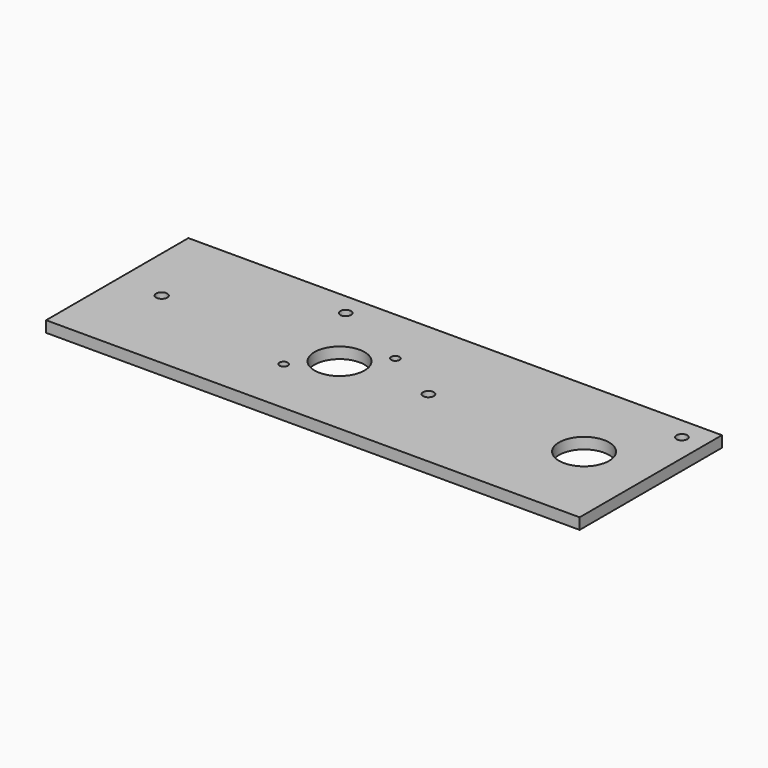
from build123d import *

# Parameters (mm, degrees)
F0_W      = 304.8
F0_H      = 101.6
F1_DEPTH  = 6.35
F2_R      = 3.175
F3_DEPTH  = 6.35
F4_R      = 14.2875
F5_DEPTH  = 6.35
F6_R      = 14.2875
F7_DEPTH  = 6.35
F9_R      = 2.413
F10_DEPTH = 6.35
F11_R     = 3.0861
F12_DEPTH = 6.35
F13_R     = 3.0861
F14_DEPTH = 6.35
F15_R     = 3.0861
F16_DEPTH = 6.35


with BuildPart() as f1:
    # F0 (on Top) → F1 (new body)
    with BuildSketch(Plane.XY):
        with Locations((79.710026, -8.171286)):
            Rectangle(F0_W, F0_H)
    extrude(amount=F1_DEPTH)

    # F2 (on face) → F3 (cut)
    with BuildSketch(Plane.XY.offset(6.35)):
        with Locations((-47.289974, -8.171286)):
            Circle(F2_R)
    extrude(amount=-F3_DEPTH, mode=Mode.SUBTRACT)

    # F4 (on face) → F5 (cut)
    with BuildSketch(Plane.XY.offset(6.35)):
        with Locations((194.010026, -8.171286)):
            Circle(F4_R)
    extrude(amount=-F5_DEPTH, mode=Mode.SUBTRACT)

    # F6 (on face) → F7 (cut)
    with BuildSketch(Plane.XY.offset(6.35)):
        with Locations((54.310026, -8.171286)):
            Circle(F6_R)
    extrude(amount=-F7_DEPTH, mode=Mode.SUBTRACT)

    # F9 (on face) → F10 (cut)
    with BuildSketch(Plane.XY.offset(6.35)):
        with Locations((36.580826, -25.900486)):
            Circle(F9_R)
        with Locations((72.039226, 9.557914)):
            Circle(F9_R)
    extrude(amount=-F10_DEPTH, mode=Mode.SUBTRACT)

    # F11 (on face) → F12 (cut)
    with BuildSketch(Plane.XY):
        with Locations((105.110026, -8.171286)):
            Circle(F11_R)
    extrude(amount=F12_DEPTH, mode=Mode.SUBTRACT)

    # F13 (on face) → F14 (cut)
    with BuildSketch(Plane.XY):
        with Locations((27.322526, 29.928714)):
            Circle(F13_R)
    extrude(amount=F14_DEPTH, mode=Mode.SUBTRACT)

    # F15 (on face) → F16 (cut)
    with BuildSketch(Plane.XY.offset(6.35)):
        with Locations((219.410026, 29.928714)):
            Circle(F15_R)
    extrude(amount=-F16_DEPTH, mode=Mode.SUBTRACT)


solid = f1.part
